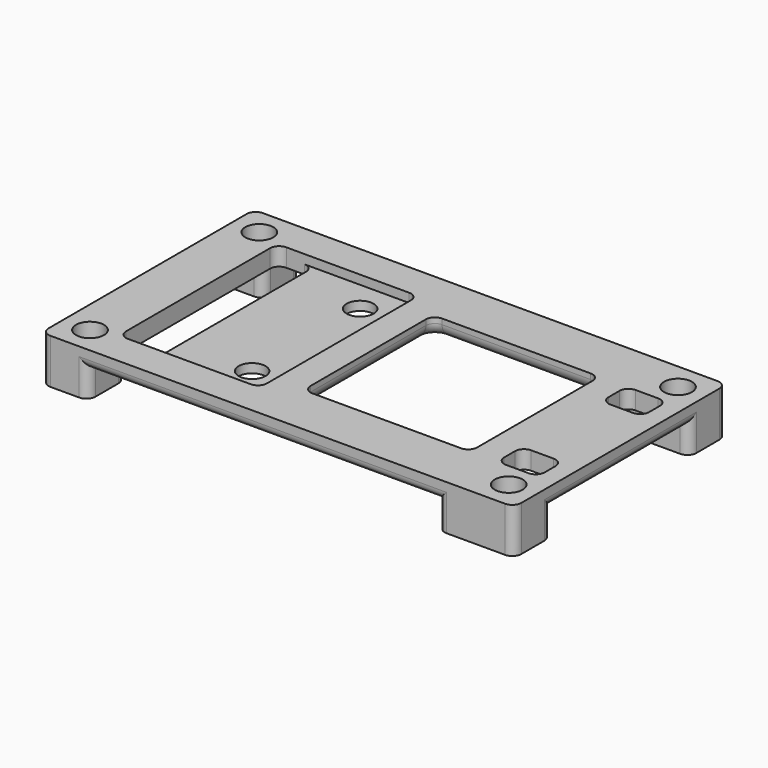
from build123d import *

# Parameters (mm, degrees)
SKETCH039_W     = 52.5
SKETCH039_H     = 29.5
SKETCH039_R     = 1.55
SKETCH039_R_2   = 1.5
SKETCH039_W_2   = 18.5
SKETCH039_H_2   = 18
SKETCH039_W_3   = 4
SKETCH039_H_3   = 22
SKETCH039_W_4   = 4.5
SKETCH039_H_4   = 3.5
PAD009_DEPTH    = 5
SKETCH040_W     = 11.65
SKETCH040_H     = 22
POCKET028_DEPTH = 1
POCKET029_DEPTH = 3
FILLET014_R     = 1
FILLET015_R     = 1.4


with BuildPart() as part:
    # Sketch039 → Pad009 (new body)
    with BuildSketch(Plane.XY):
        Rectangle(SKETCH039_W, SKETCH039_H)
        with Locations((-23.25, 11.75)):
            Circle(SKETCH039_R, mode=Mode.SUBTRACT)
        with Locations((23.25, 11.75)):
            Circle(SKETCH039_R, mode=Mode.SUBTRACT)
        with Locations((-23.25, -11.75)):
            Circle(SKETCH039_R, mode=Mode.SUBTRACT)
        with Locations((23.25, -11.75)):
            Circle(SKETCH039_R, mode=Mode.SUBTRACT)
        with Locations((-8.65, 7.5)):
            Circle(SKETCH039_R_2, mode=Mode.SUBTRACT)
        with Locations((-8.65, -7.5)):
            Circle(SKETCH039_R_2, mode=Mode.SUBTRACT)
        with Locations((7.5, 0)):
            Rectangle(SKETCH039_W_2, SKETCH039_H_2, mode=Mode.SUBTRACT)
        with Locations((-18.65, 0)):
            Rectangle(SKETCH039_W_3, SKETCH039_H_3, mode=Mode.SUBTRACT)
        with Locations((22, 7.25)):
            Rectangle(SKETCH039_W_4, SKETCH039_H_4, mode=Mode.SUBTRACT)
        with Locations((22, -7.25)):
            Rectangle(SKETCH039_W_4, SKETCH039_H_4, mode=Mode.SUBTRACT)
    extrude(amount=PAD009_DEPTH)

    # Sketch040 (on Face28 of Pad009) → Pocket028 (cut)
    with BuildSketch(Plane.XY.offset(5)):
        with Locations((-10.825, 0)):
            Rectangle(SKETCH040_W, SKETCH040_H)
    extrude(amount=-POCKET028_DEPTH, mode=Mode.SUBTRACT)

    # Sketch041 (on Face4 of Pocket028) → Pocket029 (cut)
    with BuildSketch(Plane(origin=(0, 0, 0), x_dir=(1, 0, 0), z_dir=(0, 0, -1))):
        Polygon((-21.05, 14.75), (-21.05, 9.55), (-26.25, 9.55), (-26.25, -9.55), (-21.05, -9.55), (-21.05, -14.75), (17.75, -14.75), (17.75, -9.55), (26.25, -9.55), (26.25, 9.55), (17.75, 9.55), (17.75, 14.75), align=None)
    extrude(amount=-POCKET029_DEPTH, mode=Mode.SUBTRACT)

    # Fillet014
    fillet014_edges = [part.edges().sort_by_distance(p)[0] for p in [
        (-26.25, -14.75, 2.5),
        (-26.25, 14.75, 2.5),
        (26.25, -14.75, 2.5),
        (17.75, -9.55, 1.5),
        (17.75, 9.55, 1.5),
        (-21.05, -9.55, 1.5),
        (-21.05, 9.55, 1.5),
        (26.25, 14.75, 2.5),
        (16.75, -9, 4),
        (-1.75, -9, 4),
        (16.75, 9, 4),
        (24.25, -5.5, 4),
        (24.25, 9, 4),
        (-16.65, 11, 3.5),
        (-20.65, -11, 4),
        (19.75, -9, 4),
        (19.75, 5.5, 4),
        (-20.65, 11, 4),
        (-1.75, 9, 4),
        (19.75, 9, 4),
        (19.75, -5.5, 4),
        (-16.65, -11, 3.5),
        (24.25, 5.5, 4),
        (24.25, -9, 4),
        (-5, -11, 4.5),
        (-5, 11, 4.5),
        (-21.05, -14.75, 1.5),
        (17.75, -14.75, 1.5),
        (26.25, -9.55, 1.5),
        (26.25, 9.55, 1.5),
        (-1.65, -14.75, 3),
        (17.75, 14.75, 1.5),
        (-21.05, 14.75, 1.5),
        (-26.25, -9.55, 1.5),
        (-26.25, 9.55, 1.5),
        (-26.25, 0, 3),
        (-1.65, 14.75, 3),
        (26.25, 0, 3),
    ]]
    fillet(fillet014_edges, radius=FILLET014_R)

    # Fillet015
    fillet015_edges = [part.edges().sort_by_distance(p)[0] for p in [
        (-1.75, 0, 3),
        (7.5, 9, 3),
        (16.75, 0, 3),
        (7.5, -9, 3),
    ]]
    fillet(fillet015_edges, radius=FILLET015_R)


solid = part.part
